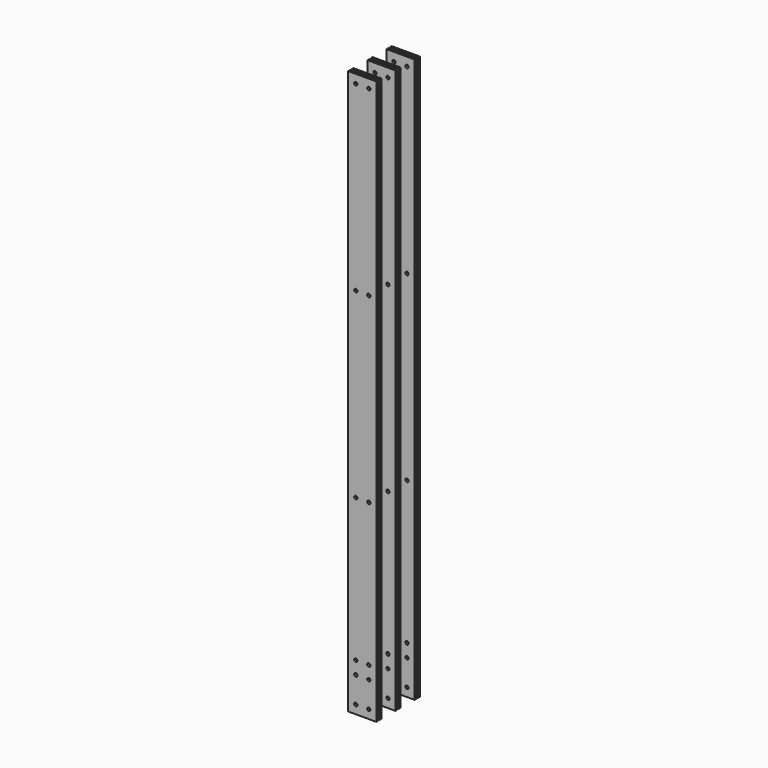
from build123d import *

# Parameters (mm, degrees)
F0_W     = 82.55
F0_H     = 6.35
F1_DEPTH = 825.5
F2_R     = 4.7625
F3_DEPTH = 158.751


with BuildPart() as f1:
    # F0 (on Top) → F1 (new body, symmetric)
    with BuildSketch(Plane.XY):
        Rectangle(F0_W, F0_H)
        with Locations((0, 12.7)):
            Rectangle(F0_W, F0_H)
        with Locations((0, 82.55)):
            Rectangle(F0_W, F0_H)
        with Locations((0, 69.85)):
            Rectangle(F0_W, F0_H)
        with Locations((0, 152.4)):
            Rectangle(F0_W, F0_H)
        with Locations((0, 139.7)):
            Rectangle(F0_W, F0_H)
    extrude(amount=F1_DEPTH, both=True)

    # F2 (on face) → F3 (cut, through all)
    with BuildSketch(Plane.XZ.offset(3.175)):
        with Locations((-19.05, -723.9)):
            Circle(F2_R)
        with Locations((-19.05, -685.8)):
            Circle(F2_R)
        with Locations((19.05, -685.8)):
            Circle(F2_R)
        with Locations((19.05, -723.9)):
            Circle(F2_R)
        with Locations((19.05, -800.1)):
            Circle(F2_R)
        with Locations((-19.05, -800.1)):
            Circle(F2_R)
        with Locations((19.05, -266.7)):
            Circle(F2_R)
        with Locations((-19.05, -266.7)):
            Circle(F2_R)
        with Locations((19.05, 266.7)):
            Circle(F2_R)
        with Locations((-19.05, 266.7)):
            Circle(F2_R)
        with Locations((19.05, 800.1)):
            Circle(F2_R)
        with Locations((-19.05, 800.1)):
            Circle(F2_R)
    extrude(amount=-F3_DEPTH, mode=Mode.SUBTRACT)


solid = f1.part
